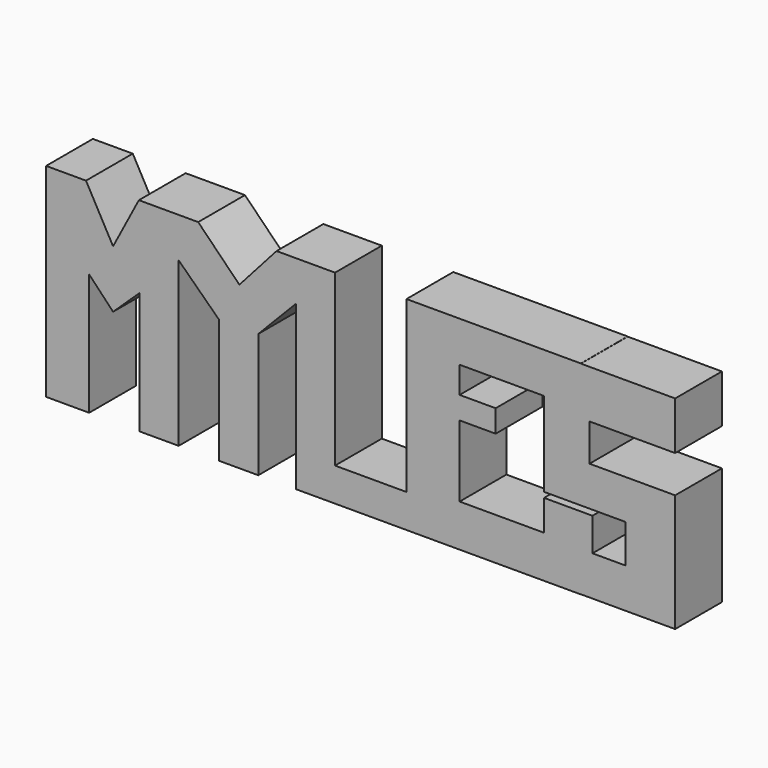
from build123d import *

# Parameters (mm, degrees)
F1_DEPTH = 25.4


with BuildPart() as f1:
    # F0 (on Front) → F1 (new body)
    with BuildSketch(Plane.XZ):
        Polygon((-58.56847018, 26.8058441579), (-58.56847018, 44.1696718335), (-75.8564463832, 44.1696718335), (-87.0612412691, 22.8805579245), (-98.826281338, 44.1696718335), (-116.1657199264, 44.1696718335), (-116.1657199264, -44.1696718335), (-97.4510317668, -44.1696718335), (-97.4510317668, 8.7780756876), (-87.0612412691, -2.158543095), (-75.5490139127, 8.7780756876), (-75.5490139127, -44.1696718335), (-58.56847018, -44.1696718335), align=None)
        Polygon((-7.5672003441, 26.8058441579), (-7.5672003441, 44.1696718335), (-16.0395050349, 44.1696718335), (-32.1926623583, 26.0362979025), (-50.0853913032, 44.1696718335), (-58.56847018, 44.1696718335), (-58.56847018, 26.8058441579), (-41.1093979278, 9.8758367822), (-41.1093979278, -44.1696718335), (-23.9841751754, -44.1696718335), (-23.9841751754, 9.8758367822), align=None)
        Polygon((9.3628074974, -29.6275112778), (9.3628074974, 44.1696718335), (-7.5672003441, 44.1696718335), (-7.5672003441, 26.8058441579), (-7.5672003441, -44.1696718335), (40.4011495411, -44.1696718335), (40.4011495411, -29.6275112778), align=None)
        Polygon((116.1657199264, 44.110127064), (116.1657199264, 44.1696718335), (40.4011495411, 44.1696718335), (40.4011495411, -29.6275112778), (40.4011495411, -44.1696718335), (116.1657199264, -44.1696718335), (116.1657199264, -44.110127064), (100.1692116261, -44.110127064), (100.1692116261, -25.7797837257), (63.4875297546, -25.7797837257), (63.4875297546, 5.258561112), (79.1349560022, 5.258561112), (79.1349560022, 15.0061408058), (63.4875297546, 15.0061408058), (63.4875297546, 26.5493281186), (100.1692116261, 26.5493281186), (100.1692116261, 44.110127064), align=None)
        Polygon((157.1156084538, 44.110127064), (116.1657199264, 44.110127064), (116.1657199264, -10.1323537529), (135.5683207512, -10.1323537529), (135.5683207512, -26.8058460206), (121.2034597993, -26.8058460206), (121.2034597993, -12.4409906566), (116.1657199264, -12.4409906566), (116.1657199264, -44.110127064), (157.1156084538, -44.110127064), (157.1156084538, 7.054167334), (119.920887053, 7.054167334), (119.920887053, 23.21462892), (157.1156084538, 23.21462892), align=None)
        Polygon((116.1657199264, 44.110127064), (116.1657199264, 44.1696718335), (40.4011495411, 44.1696718335), (40.4011495411, -29.6275112778), (40.4011495411, -44.1696718335), (116.1657199264, -44.1696718335), (116.1657199264, -44.110127064), (100.1692116261, -44.110127064), (100.1692116261, -25.7797837257), (63.4875297546, -25.7797837257), (63.4875297546, 5.258561112), (79.1349560022, 5.258561112), (79.1349560022, 15.0061408058), (63.4875297546, 15.0061408058), (63.4875297546, 26.5493281186), (100.1692116261, 26.5493281186), (100.1692116261, 44.110127064), align=None)
        Polygon((116.1657199264, 44.110127064), (116.1657199264, 44.1696718335), (40.4011495411, 44.1696718335), (40.4011495411, -29.6275112778), (40.4011495411, -44.1696718335), (116.1657199264, -44.1696718335), (116.1657199264, -44.110127064), (100.1692116261, -44.110127064), (100.1692116261, -25.7797837257), (63.4875297546, -25.7797837257), (63.4875297546, 5.258561112), (79.1349560022, 5.258561112), (79.1349560022, 15.0061408058), (63.4875297546, 15.0061408058), (63.4875297546, 26.5493281186), (100.1692116261, 26.5493281186), (100.1692116261, 44.110127064), align=None)
        Polygon((116.1657199264, -10.1323537529), (116.1657199264, 44.110127064), (100.1692116261, 44.110127064), (100.1692116261, 26.5493281186), (100.1692116261, -10.1323537529), align=None)
        Polygon((116.1657199264, -44.110127064), (116.1657199264, -12.4409906566), (100.1692116261, -12.4409906566), (100.1692116261, -25.7797837257), (100.1692116261, -44.110127064), align=None)
    extrude(amount=F1_DEPTH)


solid = f1.part
